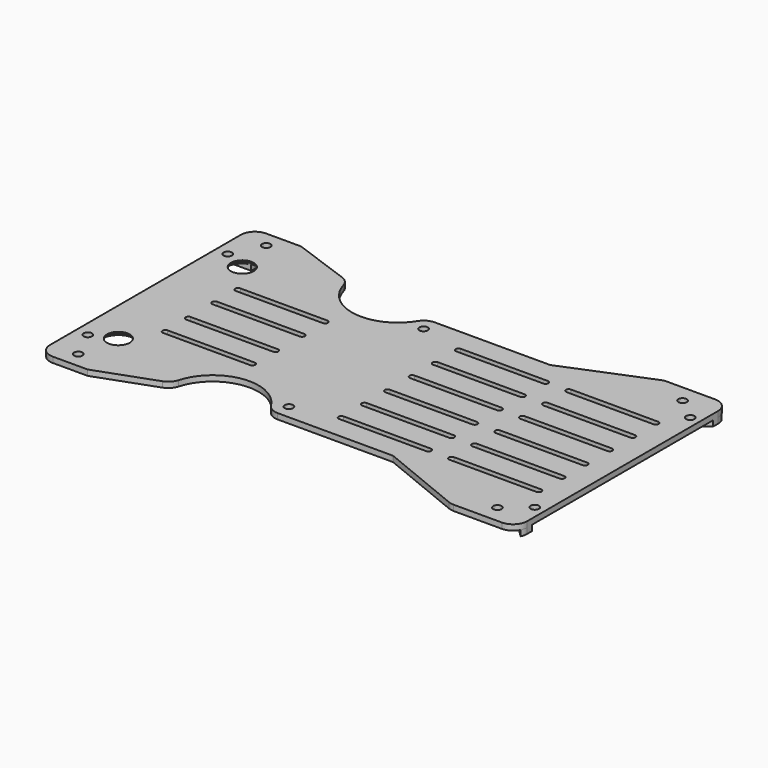
from build123d import *

# Parameters (mm, degrees)
F0_R     = 1.5
F0_R_2   = 4.064442
F1_DEPTH = 2
F2_W     = 10.996489
F2_H     = 3.251471
F3_DEPTH = 2
F4_R     = 5.902111
F5_DEPTH = 1.5


with BuildPart() as f1:
    # F0 (on Top) → F1 (new body)
    with BuildSketch(Plane.XY):
        with BuildLine():
            ThreePointArc((0, 42.5), (-1.464466, 46.035534), (-5, 47.5))
            Line((-5, 47.5), (-22.221084, 47.5))
            ThreePointArc((-22.221084, 47.5), (-23.18507, 47.406193), (-24.112885, 47.128292))
            Line((-24.112885, 47.128292), (-53.784762, 35))
            Line((-53.784762, 35), (-94.883973, 35))
            ThreePointArc((-94.883973, 35), (-97.317732, 34.367701), (-99.135947, 32.630726))
            ThreePointArc((-99.135947, 32.630726), (-115.303652, 25.021468), (-128.810321, 36.720415))
            ThreePointArc((-128.810321, 36.720415), (-129.96409, 38.753765), (-131.916134, 40.040317))
            Line((-131.916134, 40.040317), (-152.559489, 47.5))
            Line((-152.559489, 47.5), (-165, 47.5))
            ThreePointArc((-165, 47.5), (-168.535534, 46.035534), (-170, 42.5))
            Line((-170, 42.5), (-170, 35))
            Line((-170, 35), (-170, 0))
            Line((-170, 0), (-170, -35))
            Line((-170, -35), (-170, -42.5))
            ThreePointArc((-170, -42.5), (-168.535534, -46.035534), (-165, -47.5))
            Line((-165, -47.5), (-152.559489, -47.5))
            Line((-152.559489, -47.5), (-131.916134, -40.040317))
            ThreePointArc((-131.916134, -40.040317), (-129.96409, -38.753765), (-128.810321, -36.720415))
            ThreePointArc((-128.810321, -36.720415), (-115.303652, -25.021468), (-99.135947, -32.630726))
            ThreePointArc((-99.135947, -32.630726), (-97.317732, -34.367701), (-94.883973, -35))
            Line((-94.883973, -35), (-53.784762, -35))
            Line((-53.784762, -35), (-24.112885, -47.128292))
            ThreePointArc((-24.112885, -47.128292), (-23.18507, -47.406193), (-22.221084, -47.5))
            Line((-22.221084, -47.5), (-5, -47.5))
            ThreePointArc((-5, -47.5), (-1.464466, -46.035534), (0, -42.5))
            Line((0, -42.5), (0, -35))
            Line((0, -35), (0, 0))
            Line((0, 0), (0, 35))
            Line((0, 35), (0, 42.5))
        make_face()
        with Locations((-160.42681, -41.874927)):
            Circle(F0_R, mode=Mode.SUBTRACT)
        with Locations((-165.596247, -31.161871)):
            Circle(F0_R, mode=Mode.SUBTRACT)
        with Locations((-157.563224, -27.604574)):
            Circle(F0_R_2, mode=Mode.SUBTRACT)
        with Locations((-94.883973, -30)):
            Circle(F0_R, mode=Mode.SUBTRACT)
        with BuildLine():
            Line((-149.953485, -15.195275), (-118.92181, -15.195275))
            ThreePointArc((-118.92181, -15.195275), (-117.92181, -16.195275), (-118.92181, -17.195275))
            Line((-118.92181, -17.195275), (-149.953485, -17.195275))
            ThreePointArc((-149.953485, -17.195275), (-150.953485, -16.195275), (-149.953485, -15.195275))
        make_face(mode=Mode.SUBTRACT)
        with BuildLine():
            ThreePointArc((-118.92181, -4.895275), (-117.92181, -5.895275), (-118.92181, -6.895275))
            Line((-118.92181, -6.895275), (-149.953485, -6.895275))
            ThreePointArc((-149.953485, -6.895275), (-150.953485, -5.895275), (-149.953485, -4.895275))
            Line((-149.953485, -4.895275), (-118.92181, -4.895275))
        make_face(mode=Mode.SUBTRACT)
        with BuildLine():
            ThreePointArc((-48.304251, -25.082428), (-47.304251, -26.082428), (-48.304251, -27.082428))
            Line((-48.304251, -27.082428), (-79.335926, -27.082428))
            ThreePointArc((-79.335926, -27.082428), (-80.335926, -26.082428), (-79.335926, -25.082428))
            Line((-79.335926, -25.082428), (-48.304251, -25.082428))
        make_face(mode=Mode.SUBTRACT)
        with Locations((-11.601751, -41.25)):
            Circle(F0_R, mode=Mode.SUBTRACT)
        with BuildLine():
            Line((-40.035926, -25.082428), (-9.004251, -25.082428))
            ThreePointArc((-9.004251, -25.082428), (-8.004251, -26.082428), (-9.004251, -27.082428))
            Line((-9.004251, -27.082428), (-40.035926, -27.082428))
            ThreePointArc((-40.035926, -27.082428), (-41.035926, -26.082428), (-40.035926, -25.082428))
        make_face(mode=Mode.SUBTRACT)
        with Locations((-3.568025, -34.615397)):
            Circle(F0_R, mode=Mode.SUBTRACT)
        with BuildLine():
            Line((-79.335926, -14.782428), (-48.304251, -14.782428))
            ThreePointArc((-48.304251, -14.782428), (-47.304251, -15.782428), (-48.304251, -16.782428))
            Line((-48.304251, -16.782428), (-79.335926, -16.782428))
            ThreePointArc((-79.335926, -16.782428), (-80.335926, -15.782428), (-79.335926, -14.782428))
        make_face(mode=Mode.SUBTRACT)
        with BuildLine():
            ThreePointArc((-48.304251, -4.482428), (-47.304251, -5.482428), (-48.304251, -6.482428))
            Line((-48.304251, -6.482428), (-79.335926, -6.482428))
            ThreePointArc((-79.335926, -6.482428), (-80.335926, -5.482428), (-79.335926, -4.482428))
            Line((-79.335926, -4.482428), (-48.304251, -4.482428))
        make_face(mode=Mode.SUBTRACT)
        with BuildLine():
            Line((-40.035926, -14.782428), (-9.004251, -14.782428))
            ThreePointArc((-9.004251, -14.782428), (-8.004251, -15.782428), (-9.004251, -16.782428))
            Line((-9.004251, -16.782428), (-40.035926, -16.782428))
            ThreePointArc((-40.035926, -16.782428), (-41.035926, -15.782428), (-40.035926, -14.782428))
        make_face(mode=Mode.SUBTRACT)
        with BuildLine():
            ThreePointArc((-9.004251, -4.482428), (-8.004251, -5.482428), (-9.004251, -6.482428))
            Line((-9.004251, -6.482428), (-40.035926, -6.482428))
            ThreePointArc((-40.035926, -6.482428), (-41.035926, -5.482428), (-40.035926, -4.482428))
            Line((-40.035926, -4.482428), (-9.004251, -4.482428))
        make_face(mode=Mode.SUBTRACT)
        with BuildLine():
            Line((-149.953485, 6.895275), (-118.92181, 6.895275))
            ThreePointArc((-118.92181, 6.895275), (-117.92181, 5.895275), (-118.92181, 4.895275))
            Line((-118.92181, 4.895275), (-149.953485, 4.895275))
            ThreePointArc((-149.953485, 4.895275), (-150.953485, 5.895275), (-149.953485, 6.895275))
        make_face(mode=Mode.SUBTRACT)
        with BuildLine():
            Line((-149.953485, 17.195275), (-118.92181, 17.195275))
            ThreePointArc((-118.92181, 17.195275), (-117.92181, 16.195275), (-118.92181, 15.195275))
            Line((-118.92181, 15.195275), (-149.953485, 15.195275))
            ThreePointArc((-149.953485, 15.195275), (-150.953485, 16.195275), (-149.953485, 17.195275))
        make_face(mode=Mode.SUBTRACT)
        with Locations((-157.563224, 27.604574)):
            Circle(F0_R_2, mode=Mode.SUBTRACT)
        with Locations((-165.596247, 31.161871)):
            Circle(F0_R, mode=Mode.SUBTRACT)
        with Locations((-160.42681, 41.874927)):
            Circle(F0_R, mode=Mode.SUBTRACT)
        with Locations((-94.883973, 30)):
            Circle(F0_R, mode=Mode.SUBTRACT)
        with BuildLine():
            Line((-79.335926, 6.482428), (-48.304251, 6.482428))
            ThreePointArc((-48.304251, 6.482428), (-47.304251, 5.482428), (-48.304251, 4.482428))
            Line((-48.304251, 4.482428), (-79.335926, 4.482428))
            ThreePointArc((-79.335926, 4.482428), (-80.335926, 5.482428), (-79.335926, 6.482428))
        make_face(mode=Mode.SUBTRACT)
        with BuildLine():
            Line((-79.335926, 16.782428), (-48.304251, 16.782428))
            ThreePointArc((-48.304251, 16.782428), (-47.304251, 15.782428), (-48.304251, 14.782428))
            Line((-48.304251, 14.782428), (-79.335926, 14.782428))
            ThreePointArc((-79.335926, 14.782428), (-80.335926, 15.782428), (-79.335926, 16.782428))
        make_face(mode=Mode.SUBTRACT)
        with BuildLine():
            Line((-40.035926, 6.482428), (-9.004251, 6.482428))
            ThreePointArc((-9.004251, 6.482428), (-8.004251, 5.482428), (-9.004251, 4.482428))
            Line((-9.004251, 4.482428), (-40.035926, 4.482428))
            ThreePointArc((-40.035926, 4.482428), (-41.035926, 5.482428), (-40.035926, 6.482428))
        make_face(mode=Mode.SUBTRACT)
        with BuildLine():
            Line((-40.035926, 16.782428), (-9.004251, 16.782428))
            ThreePointArc((-9.004251, 16.782428), (-8.004251, 15.782428), (-9.004251, 14.782428))
            Line((-9.004251, 14.782428), (-40.035926, 14.782428))
            ThreePointArc((-40.035926, 14.782428), (-41.035926, 15.782428), (-40.035926, 16.782428))
        make_face(mode=Mode.SUBTRACT)
        with BuildLine():
            Line((-79.335926, 27.082428), (-48.304251, 27.082428))
            ThreePointArc((-48.304251, 27.082428), (-47.304251, 26.082428), (-48.304251, 25.082428))
            Line((-48.304251, 25.082428), (-79.335926, 25.082428))
            ThreePointArc((-79.335926, 25.082428), (-80.335926, 26.082428), (-79.335926, 27.082428))
        make_face(mode=Mode.SUBTRACT)
        with BuildLine():
            Line((-40.035926, 27.082428), (-9.004251, 27.082428))
            ThreePointArc((-9.004251, 27.082428), (-8.004251, 26.082428), (-9.004251, 25.082428))
            Line((-9.004251, 25.082428), (-40.035926, 25.082428))
            ThreePointArc((-40.035926, 25.082428), (-41.035926, 26.082428), (-40.035926, 27.082428))
        make_face(mode=Mode.SUBTRACT)
        with Locations((-3.568025, 34.615397)):
            Circle(F0_R, mode=Mode.SUBTRACT)
        with Locations((-11.601751, 41.25)):
            Circle(F0_R, mode=Mode.SUBTRACT)
    extrude(amount=F1_DEPTH)

    # F2 (on face) → F3 (join)
    with BuildSketch(Plane(origin=(0, 0, 0), x_dir=(1, 0, 0), z_dir=(0, 0, -1))):
        with Locations((-164.501756, 34.962811)):
            Rectangle(F2_W, F2_H)
        with BuildLine():
            Line((-0.535832, 44.751933), (-7.695868, 37.591897))
            Line((-7.695868, 37.591897), (-5.774221, 35.670251))
            Line((-5.774221, 35.670251), (0, 40.31283))
            Line((0, 40.31283), (0, 42.5))
            ThreePointArc((0, 42.5), (-0.135802, 43.657402), (-0.535832, 44.751933))
        make_face()
        with BuildLine():
            Line((0, -42.5), (0, -40.31283))
            Line((0, -40.31283), (-5.774221, -35.670251))
            Line((-5.774221, -35.670251), (-7.695868, -37.591897))
            Line((-7.695868, -37.591897), (-0.535832, -44.751933))
            ThreePointArc((-0.535832, -44.751933), (-0.135802, -43.657402), (0, -42.5))
        make_face()
        with Locations((-164.501756, -34.962811)):
            Rectangle(F2_W, F2_H)
    extrude(amount=F3_DEPTH)

    # F4 (on face) → F5 (cut)
    with BuildSketch(Plane(origin=(0, 0, 0), x_dir=(1, 0, 0), z_dir=(0, 0, -1))):
        with Locations((-157.563224, 27.604574)):
            Circle(F4_R)
        with Locations((-157.563224, -27.604574)):
            Circle(F4_R)
    extrude(amount=-F5_DEPTH, mode=Mode.SUBTRACT)


solid = f1.part
